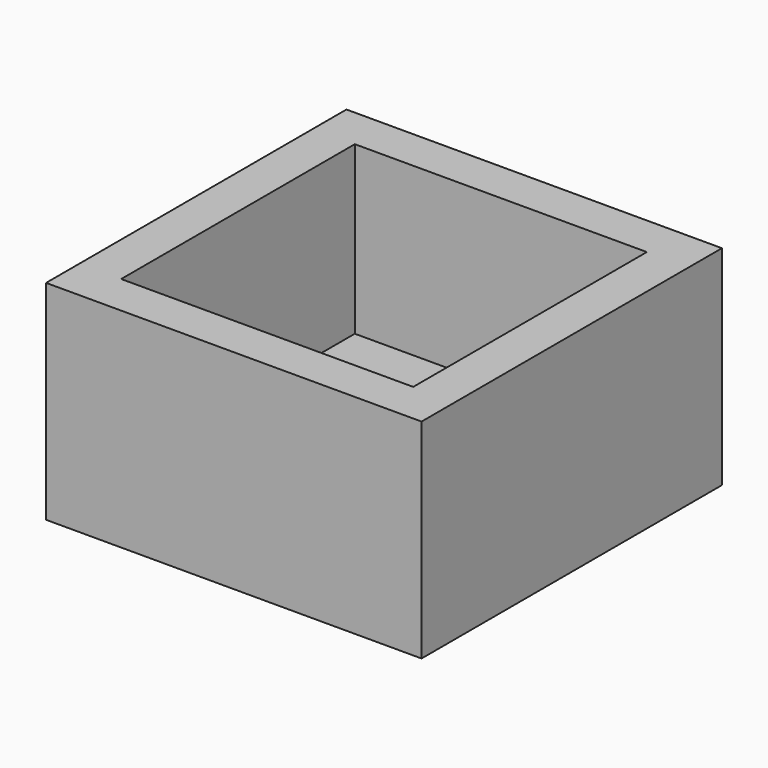
from build123d import *

# Parameters (mm, degrees)
SKETCH_W     = 9
SKETCH_H     = 9
PAD_DEPTH    = 5
SKETCH001_W  = 7
SKETCH001_H  = 7
POCKET_DEPTH = 4


with BuildPart() as part:
    # Sketch → Pad (new body)
    with BuildSketch(Plane.XY):
        Rectangle(SKETCH_W, SKETCH_H)
    extrude(amount=PAD_DEPTH)

    # Sketch001 (on DatumPlane) → Pocket (cut)
    with BuildSketch(Plane.XY.offset(5)):
        Rectangle(SKETCH001_W, SKETCH001_H)
    extrude(amount=-POCKET_DEPTH, mode=Mode.SUBTRACT)


solid = part.part
